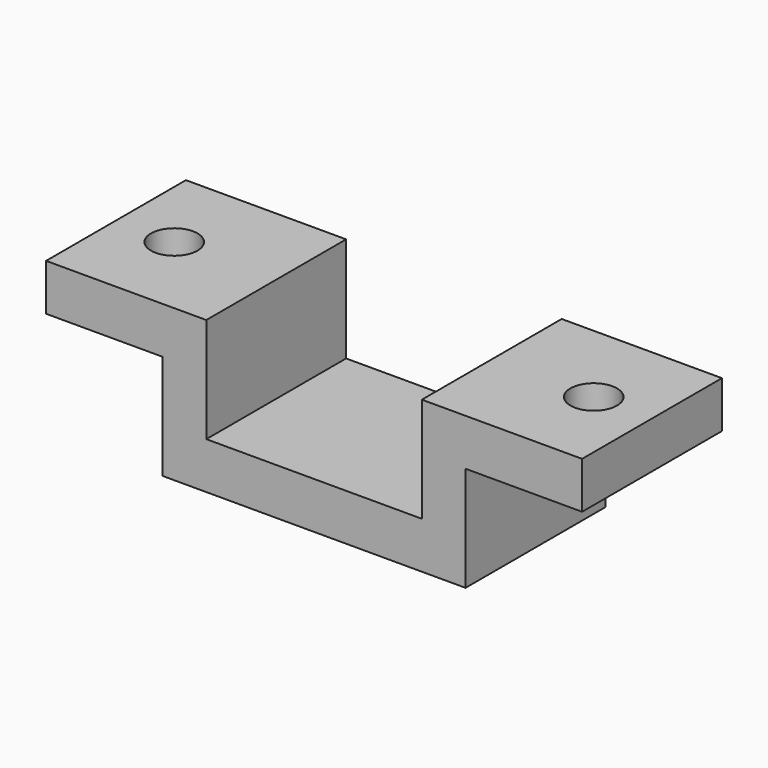
from build123d import *

# Parameters (mm, degrees)
F0_W     = 46
F0_H     = 15
F1_DEPTH = 13
F2_W     = 18.5
F2_H     = 15
F3_DEPTH = 9
F4_W     = 10
F4_H     = 15
F5_DEPTH = 9
F6_R     = 2
F7_DEPTH = 25


with BuildPart() as f1:
    # F0 (on Top) → F1 (new body)
    with BuildSketch(Plane.XY):
        Rectangle(F0_W, F0_H)
    extrude(amount=F1_DEPTH)

    # F2 (on face) → F3 (cut)
    with BuildSketch(Plane.XY.offset(13)):
        Rectangle(F2_W, F2_H)
    extrude(amount=-F3_DEPTH, mode=Mode.SUBTRACT)

    # F4 (on face) → F5 (cut)
    with BuildSketch(Plane(origin=(0, 0, 0), x_dir=(1, 0, 0), z_dir=(0, 0, -1))):
        with Locations((-18, 0)):
            Rectangle(F4_W, F4_H)
        with Locations((18, 0)):
            Rectangle(F4_W, F4_H)
    extrude(amount=-F5_DEPTH, mode=Mode.SUBTRACT)

    # F6 (on face) → F7 (cut)
    with BuildSketch(Plane(origin=(0, 0, 9), x_dir=(1, 0, 0), z_dir=(0, 0, -1))):
        with Locations((-18, 0)):
            Circle(F6_R)
        with Locations((18, 0)):
            Circle(F6_R)
    extrude(amount=-F7_DEPTH, mode=Mode.SUBTRACT)


solid = f1.part
